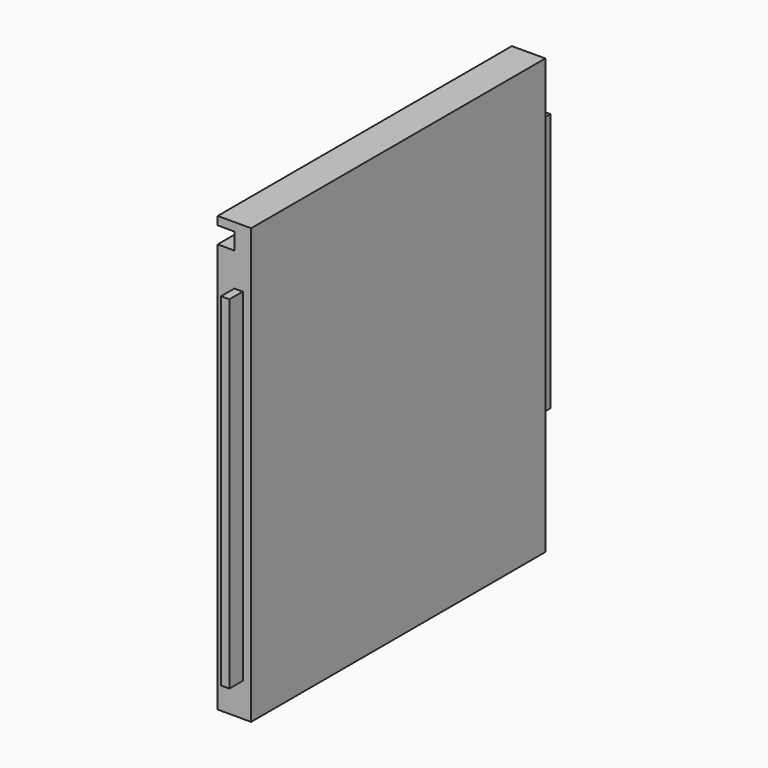
from build123d import *

# Parameters (mm, degrees)
F0_W     = 279.4
F0_H     = 304.8
F1_DEPTH = 25.4
F2_W     = 279.4
F2_H     = 25.4
F3_DEPTH = 25.4
F4_W     = 279.4
F4_H     = 12.7
F5_DEPTH = 12.7
F6_W     = 6.35
F6_H     = 260.35
F7_DEPTH = 12.7
F8_W     = 12.7
F8_H     = 196.85
F9_DEPTH = 12.7


with BuildPart() as f1:
    # F0 (on Right) → F1 (new body)
    with BuildSketch(Plane.YZ):
        with Locations((-139.7, 152.4)):
            Rectangle(F0_W, F0_H)
    extrude(amount=F1_DEPTH)

    # F2 (on Right) → F3 (join)
    with BuildSketch(Plane.YZ):
        with Locations((-139.7, -12.7)):
            Rectangle(F2_W, F2_H)
    extrude(amount=F3_DEPTH)

    # F4 (on face) → F5 (cut)
    with BuildSketch(Plane(origin=(0, 0, 0), x_dir=(0, -1, 0), z_dir=(-1, 0, 0))):
        with Locations((139.7, 292.1)):
            Rectangle(F4_W, F4_H)
    extrude(amount=-F5_DEPTH, mode=Mode.SUBTRACT)

    # F6 (on face) → F7 (join)
    with BuildSketch(Plane.XZ.offset(279.4)):
        with Locations((15.875, 130.175)):
            Rectangle(F6_W, F6_H)
    extrude(amount=F7_DEPTH)

    # F8 (on face) → F9 (join)
    with BuildSketch(Plane(origin=(0, 0, 0), x_dir=(-1, 0, 0), z_dir=(0, 1, 0))):
        with Locations((-12.7, 161.925)):
            Rectangle(F8_W, F8_H)
    extrude(amount=F9_DEPTH)


solid = f1.part
